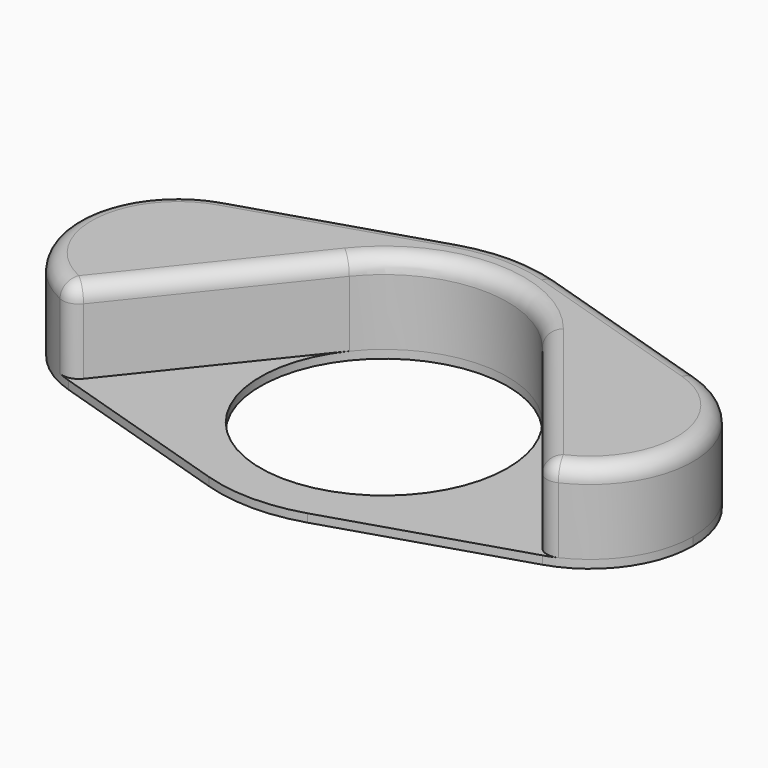
from build123d import *

# Parameters (mm, degrees)
F0_DEPTH = 2.54
F1_R     = 38.1
F5_DEPTH = 2.541
F2_DEPTH = 25.4
F3_R     = 5.08


with BuildPart() as f0:
    # F4 (on Top) → F0 (new body)
    with BuildSketch(Plane.XY):
        with BuildLine():
            ThreePointArc((44.1325, 25.1587448763), (31.8906233853, 39.5427381462), (15.24, 48.460111432))
            ThreePointArc((15.24, 48.460111432), (0, 50.8), (-15.24, 48.460111432))
            ThreePointArc((-15.24, 48.460111432), (-31.8906233853, 39.5427381462), (-44.1325, 25.1587448763))
            ThreePointArc((-44.1325, 25.1587448763), (-35.0133309687, 14.0204203753), (-31.75, 0))
            Line((-31.75, 0), (31.75, 0))
            ThreePointArc((31.75, 0), (35.0133309687, 14.0204203753), (44.1325, 25.1587448763))
        make_face()
        with BuildLine():
            Line((73.025, 30.287569645), (15.24, 48.460111432))
            ThreePointArc((15.24, 48.460111432), (31.8906233853, 39.5427381462), (44.1325, 25.1587448763))
            ThreePointArc((44.1325, 25.1587448763), (57.9506836061, 31.2612793654), (73.025, 30.287569645))
        make_face()
        with BuildLine():
            ThreePointArc((-44.1325, 25.1587448763), (-31.8906233853, 39.5427381462), (-15.24, 48.460111432))
            Line((-15.24, 48.460111432), (-73.025, 30.287569645))
            ThreePointArc((-73.025, 30.287569645), (-57.9506836061, 31.2612793654), (-44.1325, 25.1587448763))
        make_face()
        with BuildLine():
            ThreePointArc((73.025, 30.287569645), (57.9506836061, 31.2612793654), (44.1325, 25.1587448763))
            ThreePointArc((44.1325, 25.1587448763), (49.1048419201, 13.0136274728), (50.8, 0))
            ThreePointArc((50.8, 0), (49.1048419201, -13.0136274728), (44.1325, -25.1587448763))
            ThreePointArc((44.1325, -25.1587448763), (57.9506836061, -31.2612793654), (73.025, -30.287569645))
            ThreePointArc((73.025, -30.287569645), (89.0976683508, -18.7835533113), (95.25, 0))
            ThreePointArc((95.25, 0), (89.0976683508, 18.7835533113), (73.025, 30.287569645))
        make_face()
        with BuildLine():
            ThreePointArc((-50.8, 0), (-49.1048419201, 13.0136274728), (-44.1325, 25.1587448763))
            ThreePointArc((-44.1325, 25.1587448763), (-57.9506836061, 31.2612793654), (-73.025, 30.287569645))
            ThreePointArc((-73.025, 30.287569645), (-95.25, 0), (-73.025, -30.287569645))
            ThreePointArc((-73.025, -30.287569645), (-57.9506836061, -31.2612793654), (-44.1325, -25.1587448763))
            ThreePointArc((-44.1325, -25.1587448763), (-49.1048419201, -13.0136274728), (-50.8, 0))
        make_face()
        with BuildLine():
            ThreePointArc((44.1325, -25.1587448763), (35.0133309687, -14.0204203753), (31.75, 0))
            Line((31.75, 0), (-31.75, 0))
            ThreePointArc((-31.75, 0), (-35.0133309687, -14.0204203753), (-44.1325, -25.1587448763))
            ThreePointArc((-44.1325, -25.1587448763), (-31.8906233853, -39.5427381462), (-15.24, -48.460111432))
            ThreePointArc((-15.24, -48.460111432), (0, -50.8), (15.24, -48.460111432))
            ThreePointArc((15.24, -48.460111432), (31.8906233853, -39.5427381462), (44.1325, -25.1587448763))
        make_face()
        with BuildLine():
            ThreePointArc((-44.1325, -25.1587448763), (-57.9506836061, -31.2612793654), (-73.025, -30.287569645))
            Line((-73.025, -30.287569645), (-15.24, -48.460111432))
            ThreePointArc((-15.24, -48.460111432), (-31.8906233853, -39.5427381462), (-44.1325, -25.1587448763))
        make_face()
        with BuildLine():
            ThreePointArc((73.025, -30.287569645), (57.9506836061, -31.2612793654), (44.1325, -25.1587448763))
            ThreePointArc((44.1325, -25.1587448763), (31.8906233853, -39.5427381462), (15.24, -48.460111432))
            Line((15.24, -48.460111432), (73.025, -30.287569645))
        make_face()
        with BuildLine():
            ThreePointArc((50.8, 0), (49.1048419201, 13.0136274728), (44.1325, 25.1587448763))
            ThreePointArc((44.1325, 25.1587448763), (35.0133309687, 14.0204203753), (31.75, 0))
            Line((31.75, 0), (50.8, 0))
        make_face()
        with BuildLine():
            ThreePointArc((44.1325, -25.1587448763), (49.1048419201, -13.0136274728), (50.8, 0))
            Line((50.8, 0), (31.75, 0))
            ThreePointArc((31.75, 0), (35.0133309687, -14.0204203753), (44.1325, -25.1587448763))
        make_face()
        with BuildLine():
            Line((-31.75, 0), (-50.8, 0))
            ThreePointArc((-50.8, 0), (-49.1048419201, -13.0136274728), (-44.1325, -25.1587448763))
            ThreePointArc((-44.1325, -25.1587448763), (-35.0133309687, -14.0204203753), (-31.75, 0))
        make_face()
        with BuildLine():
            ThreePointArc((-31.75, 0), (-35.0133309687, 14.0204203753), (-44.1325, 25.1587448763))
            ThreePointArc((-44.1325, 25.1587448763), (-49.1048419201, 13.0136274728), (-50.8, 0))
            Line((-50.8, 0), (-31.75, 0))
        make_face()
    extrude(amount=F0_DEPTH)

    # F1 (on face) → F5 (cut, through all)
    with BuildSketch(Plane.XY.offset(2.54)):
        Circle(F1_R)
    extrude(amount=-F5_DEPTH, mode=Mode.SUBTRACT)

    # F6 (on face) → F2 (join)
    with BuildSketch(Plane.XY.offset(2.54)):
        with BuildLine():
            Line((-73.025, -30.287569645), (-29.75025979, 23.8019335859))
            ThreePointArc((-29.75025979, 23.8019335859), (0, 38.1), (29.75025979, 23.8019335859))
            Line((29.75025979, 23.8019335859), (73.025, -30.287569645))
            ThreePointArc((73.025, -30.287569645), (95.25, 0), (73.025, 30.287569645))
            Line((73.025, 30.287569645), (15.24, 48.460111432))
            ThreePointArc((15.24, 48.460111432), (0, 50.8), (-15.24, 48.460111432))
            Line((-15.24, 48.460111432), (-73.025, 30.287569645))
            ThreePointArc((-73.025, 30.287569645), (-95.25, 0), (-73.025, -30.287569645))
        make_face()
    extrude(amount=F2_DEPTH)

    # F3
    f3_edges = [f0.edges().sort_by_distance(p)[0] for p in [
        (73.025, -30.28757, 15.24),
        (-73.025, -30.28757, 15.24),
        (-44.1325, 39.373841, 27.94),
        (-95.25, 0, 27.94),
        (-51.38763, -3.242818, 27.94),
        (0, 38.1, 27.94),
        (51.38763, -3.242818, 27.94),
        (95.25, 0, 27.94),
        (44.1325, 39.373841, 27.94),
        (0, 50.8, 27.94),
    ]]
    fillet(f3_edges, radius=F3_R)


solid = f0.part
